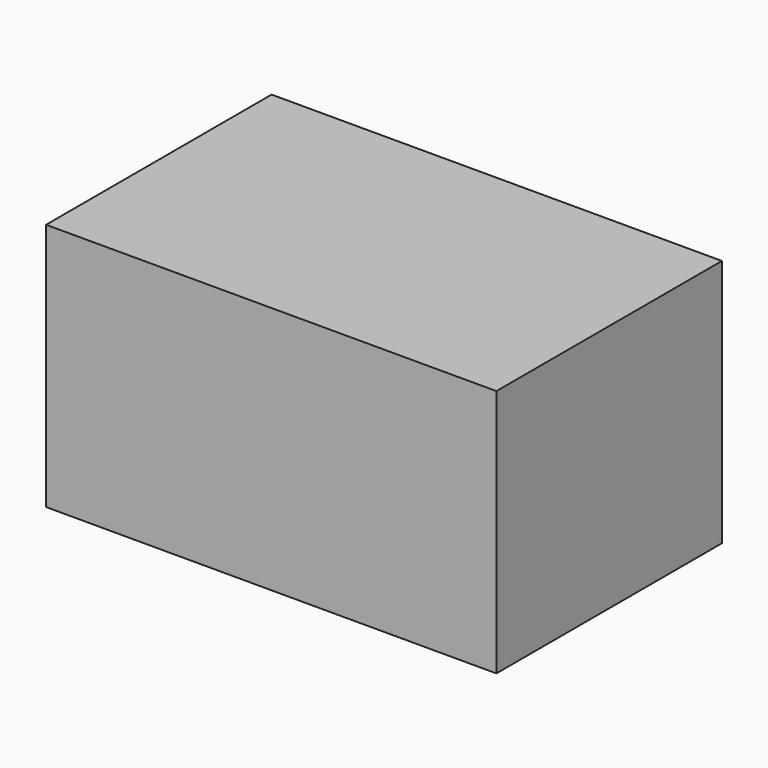
from build123d import *

# Parameters (mm, degrees)
F0_W     = 20.13
F0_H     = 12.6
F1_DEPTH = 11.11
F2_W     = 18.54
F2_H     = 11.01
F3_DEPTH = 9.62


with BuildPart() as f1:
    # F0 (on Top) → F1 (new body)
    with BuildSketch(Plane.XY):
        Rectangle(F0_W, F0_H)
    extrude(amount=-F1_DEPTH)

    # F2 (on face) → F3 (cut)
    with BuildSketch(Plane(origin=(0, 0, -11.11), x_dir=(1, 0, 0), z_dir=(0, 0, -1))):
        Rectangle(F2_W, F2_H)
    extrude(amount=-F3_DEPTH, mode=Mode.SUBTRACT)


solid = f1.part
